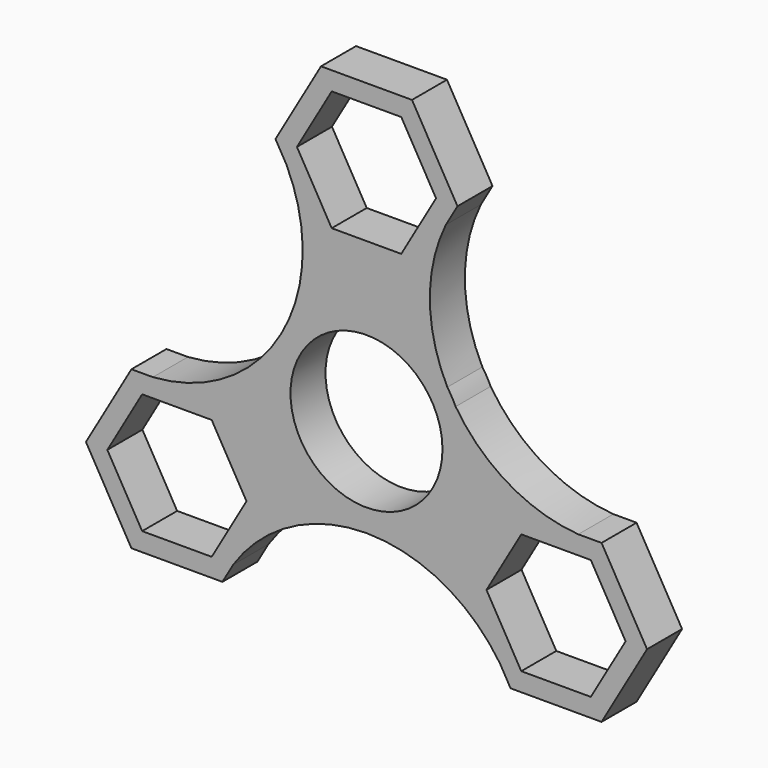
from build123d import *

# Parameters (mm, degrees)
F0_R     = 11.0236
F1_DEPTH = 6.35


with BuildPart() as f1:
    # F0 (on Front) → F1 (new body)
    with BuildSketch(Plane.XZ):
        with BuildLine():
            ThreePointArc((11.7260284113, 8.162898624), (12.3020045878, 7.1025656604), (12.9322917826, 6.0735891777))
            ThreePointArc((12.9322917826, 6.0735891777), (12.3733379566, 7.14375), (11.7260284113, 8.162898624))
        make_face()
        with BuildLine():
            ThreePointArc((-0.1934337782, -14.2861905217), (0, -14.2875), (0.1934337782, -14.2861905217))
            ThreePointArc((0.1934337782, -14.2861905217), (0, -14.2853868992), (-0.1934337782, -14.2861905217))
        make_face()
        with BuildLine():
            ThreePointArc((13.1982271537, 31.75), (12.3020045878, 30.3203264375), (11.5119822465, 28.8293381468))
            Line((11.5119822465, 28.8293381468), (13.1982271537, 31.75))
        make_face()
        with BuildLine():
            Line((-13.1982271537, 31.75), (-11.6416621117, 29.0539502619))
            ThreePointArc((-11.6416621117, 29.0539502619), (-12.3748344335, 30.4280195166), (-13.1982271537, 31.75))
        make_face()
        with BuildLine():
            Line((-20.8971929933, -27.305), (-19.3346786135, -24.5986457066))
            ThreePointArc((-19.3346786135, -24.5986457066), (-20.1613978096, -25.9255753518), (-20.8971929933, -27.305))
        make_face()
        with BuildLine():
            ThreePointArc((-34.095420147, -4.445), (-32.538855105, -4.4970887713), (-30.982290063, -4.445))
            Line((-30.982290063, -4.445), (-34.095420147, -4.445))
        make_face()
        with BuildLine():
            Line((34.095420147, -4.445), (30.7229303327, -4.445))
            ThreePointArc((30.7229303327, -4.445), (32.4091752398, -4.5063147282), (34.095420147, -4.445))
        make_face()
        with BuildLine():
            ThreePointArc((20.8971929933, -27.305), (20.1613978096, -25.9255753518), (19.3346786135, -24.5986457066))
            Line((19.3346786135, -24.5986457066), (20.8971929933, -27.305))
        make_face()
        with BuildLine():
            ThreePointArc((12.9322917826, 6.0735891777), (13.9445827312, 3.1114737188), (14.2875, 0))
            ThreePointArc((14.2875, 0), (10.1709473835, -10.0341659131), (0.1934337782, -14.2861905217))
            ThreePointArc((0.1934337782, -14.2861905217), (11.0418964123, -17.0705821153), (19.3346786135, -24.5986457066))
            Line((19.3346786135, -24.5986457066), (14.2980794165, -15.875))
            Line((14.2980794165, -15.875), (20.8971929933, -4.445))
            Line((20.8971929933, -4.445), (30.7229303327, -4.445))
            ThreePointArc((30.7229303327, -4.445), (20.5926749071, -1.2744173397), (12.9322917826, 6.0735891777))
        make_face()
        with BuildLine():
            ThreePointArc((-0.1934337782, -14.2861905217), (-12.619056447, 6.7001545234), (11.7260284113, 8.162898624))
            ThreePointArc((11.7260284113, 8.162898624), (9.1926596623, 18.4709882713), (11.5119822465, 28.8293381468))
            Line((11.5119822465, 28.8293381468), (6.5991135768, 20.32))
            Line((6.5991135768, 20.32), (-6.5991135768, 20.32))
            Line((-6.5991135768, 20.32), (-11.6416621117, 29.0539502619))
            ThreePointArc((-11.6416621117, 29.0539502619), (-12.3748344335, 7.1446139913), (-30.982290063, -4.445))
            Line((-30.982290063, -4.445), (-20.8971929933, -4.445))
            Line((-20.8971929933, -4.445), (-14.2980794165, -15.875))
            Line((-14.2980794165, -15.875), (-19.3346786135, -24.5986457066))
            ThreePointArc((-19.3346786135, -24.5986457066), (-11.0418964123, -17.0705821153), (-0.1934337782, -14.2861905217))
        make_face()
        with BuildLine():
            ThreePointArc((-20.8971929933, -27.305), (-20.1613978096, -25.9255753518), (-19.3346786135, -24.5986457066))
            Line((-19.3346786135, -24.5986457066), (-14.2980794165, -15.875))
            Line((-14.2980794165, -15.875), (-20.8971929933, -4.445))
            Line((-20.8971929933, -4.445), (-30.982290063, -4.445))
            ThreePointArc((-30.982290063, -4.445), (-32.538855105, -4.4970887713), (-34.095420147, -4.445))
            Line((-34.095420147, -4.445), (-40.6945337238, -15.875))
            Line((-40.6945337238, -15.875), (-34.095420147, -27.305))
            Line((-34.095420147, -27.305), (-20.8971929933, -27.305))
        make_face()
        Polygon((-22.4516508581, -24.6126), (-32.5409622822, -24.6126), (-37.5856179943, -15.875), (-32.5409622822, -7.1374), (-22.4516508581, -7.1374), (-17.406995146, -15.875), align=None, mode=Mode.SUBTRACT)
        with BuildLine():
            ThreePointArc((34.095420147, -4.445), (32.4091752398, -4.5063147282), (30.7229303327, -4.445))
            Line((30.7229303327, -4.445), (20.8971929933, -4.445))
            Line((20.8971929933, -4.445), (14.2980794165, -15.875))
            Line((14.2980794165, -15.875), (19.3346786135, -24.5986457066))
            ThreePointArc((19.3346786135, -24.5986457066), (20.1613978096, -25.9255753518), (20.8971929933, -27.305))
            Line((20.8971929933, -27.305), (34.095420147, -27.305))
            Line((34.095420147, -27.305), (40.6945337238, -15.875))
            Line((40.6945337238, -15.875), (34.095420147, -4.445))
        make_face()
        Polygon((32.5409622822, -7.1374), (37.5856179943, -15.875), (32.5409622822, -24.6126), (22.4516508581, -24.6126), (17.406995146, -15.875), (22.4516508581, -7.1374), align=None, mode=Mode.SUBTRACT)
        with BuildLine():
            ThreePointArc((0.1934337782, -14.2861905217), (10.1709473835, -10.0341659131), (14.2875, 0))
            ThreePointArc((14.2875, 0), (13.9445827312, 3.1114737188), (12.9322917826, 6.0735891777))
            ThreePointArc((12.9322917826, 6.0735891777), (12.3020045878, 7.1025656604), (11.7260284113, 8.162898624))
            ThreePointArc((11.7260284113, 8.162898624), (-12.619056447, 6.7001545234), (-0.1934337782, -14.2861905217))
            ThreePointArc((-0.1934337782, -14.2861905217), (0, -14.2853868992), (0.1934337782, -14.2861905217))
        make_face()
        Circle(F0_R, mode=Mode.SUBTRACT)
        with BuildLine():
            Line((6.5991135768, 20.32), (11.5119822465, 28.8293381468))
            ThreePointArc((11.5119822465, 28.8293381468), (12.3020045878, 30.3203264375), (13.1982271537, 31.75))
            Line((13.1982271537, 31.75), (6.5991135768, 43.18))
            Line((6.5991135768, 43.18), (-6.5991135768, 43.18))
            Line((-6.5991135768, 43.18), (-13.1982271537, 31.75))
            ThreePointArc((-13.1982271537, 31.75), (-12.3748344335, 30.4280195166), (-11.6416621117, 29.0539502619))
            Line((-11.6416621117, 29.0539502619), (-6.5991135768, 20.32))
            Line((-6.5991135768, 20.32), (6.5991135768, 20.32))
        make_face()
        Polygon((10.0893114241, 31.75), (5.0446557121, 23.0124), (-5.0446557121, 23.0124), (-10.0893114241, 31.75), (-5.0446557121, 40.4876), (5.0446557121, 40.4876), align=None, mode=Mode.SUBTRACT)
    extrude(amount=F1_DEPTH)


solid = f1.part
